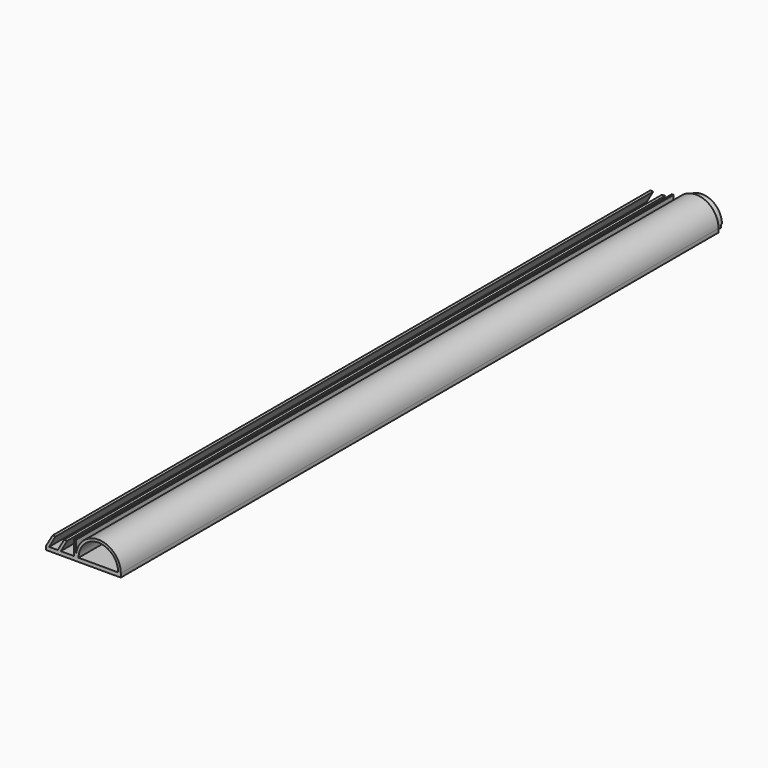
from build123d import *

# Parameters (mm, degrees)
F1_DEPTH = 200
F2_W     = 8.3923048454
F2_H     = 0.2
F3_DEPTH = 1
F2_W_2   = 0.9144346228
F2_H_2   = 1
F2_W_3   = 0.9401379739
F4_DEPTH = 2


with BuildPart() as f1:
    # F0 (on Front) → F1 (new body)
    with BuildSketch(Plane.XZ):
        with BuildLine():
            Line((-8, 0), (0, 0))
            Line((0, 0), (12, 0))
            Line((12, 0), (12, 1))
            ThreePointArc((12, 1), (6, 7), (0, 1))
            Line((0, 1), (0, 5))
            Line((0, 5), (-0.5, 5))
            Line((-0.5, 5), (-0.5, 1))
            Line((-0.5, 1), (-4.0740181695, 1))
            Line((-4.0740181695, 1), (-2.3419673619, 4))
            Line((-2.3419673619, 4), (-3.1502577388, 4))
            Line((-3.1502577388, 4), (-4.8823085464, 1))
            Line((-4.8823085464, 1), (-7.1917096231, 1))
            Line((-7.1917096231, 1), (-5.4596588156, 4))
            Line((-5.4596588156, 4), (-6.2679491924, 4))
            Line((-6.2679491924, 4), (-8, 1))
            Line((-8, 1), (-8, 0))
        make_face()
        with BuildLine():
            ThreePointArc((0.7, 1), (6, 6.3), (11.3, 1))
            Line((11.3, 1), (0.7, 1))
        make_face(mode=Mode.SUBTRACT)
    extrude(amount=F1_DEPTH)

    # F2 (on Front) → F3 (join)
    with BuildSketch(Plane.XZ):
        with BuildLine():
            ThreePointArc((0.9039230775, 1.2), (6, 6.1), (11.0960769225, 1.2))
            Line((11.0960769225, 1.2), (10.1961524227, 1.2))
            Line((10.1961524227, 1.2), (10.1961524227, 1))
            Line((10.1961524227, 1), (11.1105870456, 1))
            Line((11.1105870456, 1), (11.3, 1))
            ThreePointArc((11.3, 1), (6, 6.3), (0.7, 1))
            Line((0.7, 1), (0.8637096034, 1))
            Line((0.8637096034, 1), (1.8038475773, 1))
            Line((1.8038475773, 1), (1.8038475773, 1.2))
            Line((1.8038475773, 1.2), (0.9039230775, 1.2))
        make_face()
        with BuildLine():
            Line((10.1961524227, 1.2), (11.0960769225, 1.2))
            ThreePointArc((11.0960769225, 1.2), (6, 6.1), (0.9039230775, 1.2))
            Line((0.9039230775, 1.2), (1.8038475773, 1.2))
            Line((1.8038475773, 1.2), (10.1961524227, 1.2))
        make_face()
        with BuildLine():
            ThreePointArc((1.3384551917, 1.6), (6, 5.7), (10.6615448083, 1.6))
            Line((10.6615448083, 1.6), (1.3384551917, 1.6))
        make_face(mode=Mode.SUBTRACT)
        with BuildLine():
            ThreePointArc((0.9039230775, 1.2), (6, 6.1), (11.0960769225, 1.2))
            Line((11.0960769225, 1.2), (10.1961524227, 1.2))
            Line((10.1961524227, 1.2), (10.1961524227, 1))
            Line((10.1961524227, 1), (11.1105870456, 1))
            Line((11.1105870456, 1), (11.3, 1))
            ThreePointArc((11.3, 1), (6, 6.3), (0.7, 1))
            Line((0.7, 1), (0.8637096034, 1))
            Line((0.8637096034, 1), (1.8038475773, 1))
            Line((1.8038475773, 1), (1.8038475773, 1.2))
            Line((1.8038475773, 1.2), (0.9039230775, 1.2))
        make_face()
        with Locations((6, 1.1)):
            Rectangle(F2_W, F2_H)
        with BuildLine():
            ThreePointArc((0.9039230775, 1.2), (6, 6.1), (11.0960769225, 1.2))
            Line((11.0960769225, 1.2), (10.1961524227, 1.2))
            Line((10.1961524227, 1.2), (10.1961524227, 1))
            Line((10.1961524227, 1), (11.1105870456, 1))
            Line((11.1105870456, 1), (11.3, 1))
            ThreePointArc((11.3, 1), (6, 6.3), (0.7, 1))
            Line((0.7, 1), (0.8637096034, 1))
            Line((0.8637096034, 1), (1.8038475773, 1))
            Line((1.8038475773, 1), (1.8038475773, 1.2))
            Line((1.8038475773, 1.2), (0.9039230775, 1.2))
        make_face()
    extrude(amount=F3_DEPTH)

    # F2 (on Front) → F4 (join)
    with BuildSketch(Plane.XZ):
        with BuildLine():
            Line((10.1961524227, 1.2), (11.0960769225, 1.2))
            ThreePointArc((11.0960769225, 1.2), (6, 6.1), (0.9039230775, 1.2))
            Line((0.9039230775, 1.2), (1.8038475773, 1.2))
            Line((1.8038475773, 1.2), (10.1961524227, 1.2))
        make_face()
        with BuildLine():
            ThreePointArc((1.3384551917, 1.6), (6, 5.7), (10.6615448083, 1.6))
            Line((10.6615448083, 1.6), (1.3384551917, 1.6))
        make_face(mode=Mode.SUBTRACT)
        with Locations((10.6533697341, 0.5)):
            Rectangle(F2_W_2, F2_H_2)
        with Locations((1.3337785904, 0.5)):
            Rectangle(F2_W_3, F2_H_2)
        with BuildLine():
            ThreePointArc((0.9039230775, 1.2), (6, 6.1), (11.0960769225, 1.2))
            Line((11.0960769225, 1.2), (10.1961524227, 1.2))
            Line((10.1961524227, 1.2), (10.1961524227, 1))
            Line((10.1961524227, 1), (11.1105870456, 1))
            Line((11.1105870456, 1), (11.3, 1))
            ThreePointArc((11.3, 1), (6, 6.3), (0.7, 1))
            Line((0.7, 1), (0.8637096034, 1))
            Line((0.8637096034, 1), (1.8038475773, 1))
            Line((1.8038475773, 1), (1.8038475773, 1.2))
            Line((1.8038475773, 1.2), (0.9039230775, 1.2))
        make_face()
        with BuildLine():
            ThreePointArc((0.9039230775, 1.2), (6, 6.1), (11.0960769225, 1.2))
            Line((11.0960769225, 1.2), (10.1961524227, 1.2))
            Line((10.1961524227, 1.2), (10.1961524227, 1))
            Line((10.1961524227, 1), (11.1105870456, 1))
            Line((11.1105870456, 1), (11.3, 1))
            ThreePointArc((11.3, 1), (6, 6.3), (0.7, 1))
            Line((0.7, 1), (0.8637096034, 1))
            Line((0.8637096034, 1), (1.8038475773, 1))
            Line((1.8038475773, 1), (1.8038475773, 1.2))
            Line((1.8038475773, 1.2), (0.9039230775, 1.2))
        make_face()
    extrude(amount=-F4_DEPTH)


solid = f1.part
